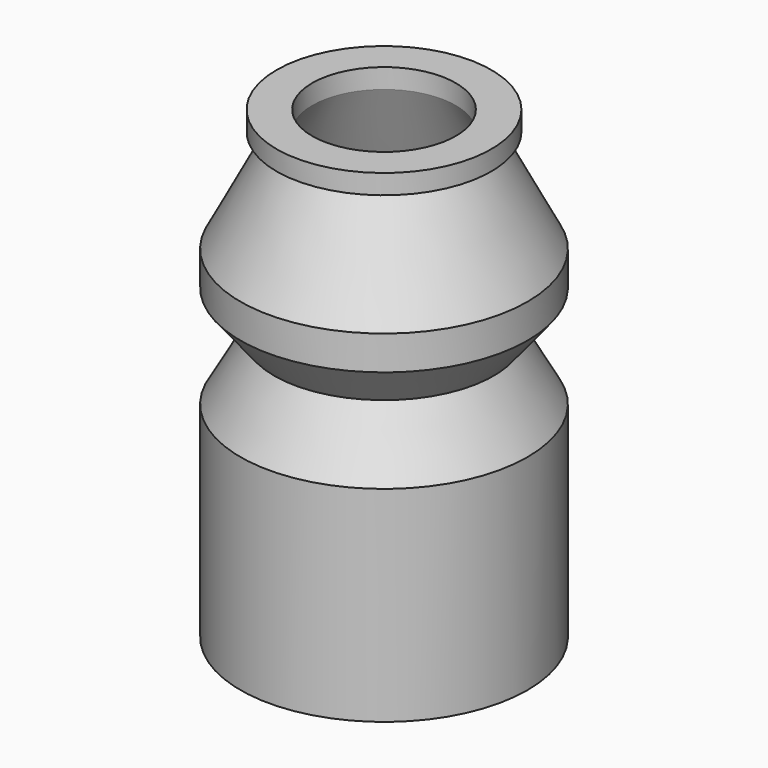
from build123d import *


with BuildPart() as f1:
    # F0 (on Front) → F1 (revolve)
    with BuildSketch(Plane.XZ):
        Polygon((-19.742312, -75.000003), (-2.242312, -75.000003), (-2.242312, -72.381832), (-14.959486, -72.381832), (-14.959486, -45.000003), (-10.718972, -35.91638), (-15.834461, -30.000003), (-15.834461, -25.000003), (-9.238326, -9.955865), (-9.238326, -7.085706), (-14.440491, -7.085706), (-14.440491, -9.955865), (-11.9291, -9.955865), (-19.742312, -25.000003), (-19.742312, -30.000003), (-14.799261, -36.146071), (-19.742312, -45.000003), align=None)
        Polygon((-2.242312, -72.381832), (-2.242312, -75.000003), (1.257688, -75.000003), (1.257688, -72.202452), (-2.242312, -72.202452), align=None)
    revolve(axis=Axis((1.257688, 0, -73.601227), (0, 0, 1)))


solid = f1.part
